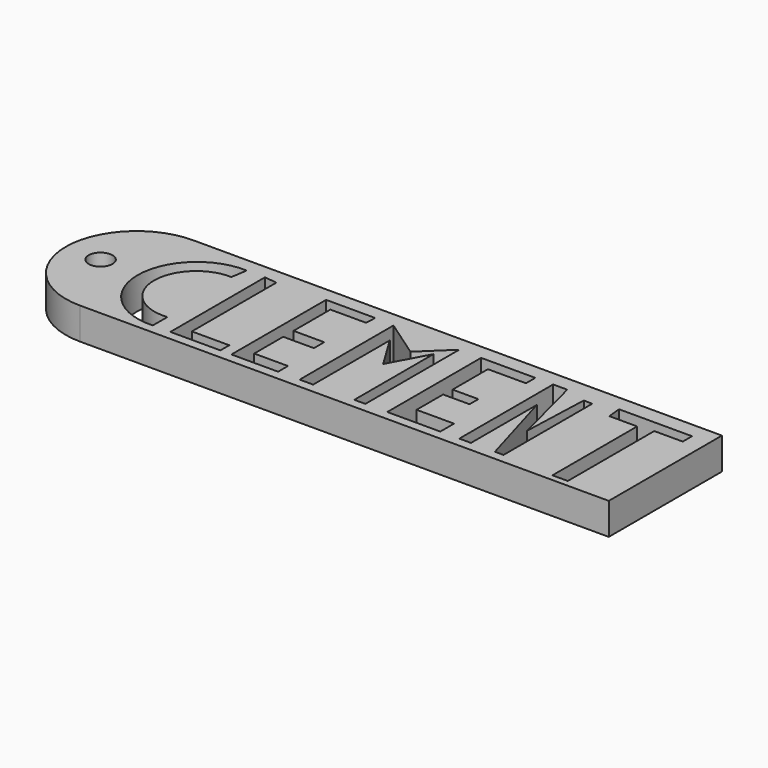
from build123d import *

# Parameters (mm, degrees)
F0_R     = 1.127367
F1_DEPTH = 3


with BuildPart() as f1:
    # F0 (on Top) → F1 (new body)
    with BuildSketch(Plane.XY):
        Polygon((35.822709, 6.686571), (14.177291, 6.686571), (-14.177291, 6.686571), (-14.177291, -6.686571), (14.177291, -6.686571), (35.822709, -6.686571), align=None)
        with BuildLine():
            ThreePointArc((-7.987168, -5.811147), (-13.890392, -0.254472), (-8.056216, 5.374655))
            Line((-8.056216, 5.374655), (-8.291011, 3.855596))
            ThreePointArc((-8.291011, 3.855596), (-12.407662, -0.278009), (-7.987168, -4.084943))
            Line((-7.987168, -4.084943), (-7.987168, -5.811147))
        make_face(mode=Mode.SUBTRACT)
        Polygon((-6.330013, -5.811147), (-6.330013, 5.374655), (-5.141345, 5.225612), (-5.141345, -4.761113), (-1.599541, -4.761113), (-1.599541, -5.811147), align=None, mode=Mode.SUBTRACT)
        Polygon((-0.554419, -5.811147), (-0.554419, 5.374655), (4.090569, 5.374655), (4.032507, 4.354677), (0.66489, 4.354677), (0.66489, 0), (3.568008, 0), (3.568008, -1.219309), (0.66489, -1.219309), (0.66489, -4.644988), (3.85832, -4.644988), (3.85832, -5.811147), align=None, mode=Mode.SUBTRACT)
        Polygon((5.890502, -5.806235), (5.890502, 5.283674), (9.490368, 2.786993), (12.103175, 5.283674), (12.103175, -5.806235), (11.058051, -5.806235), (11.058051, 3.541804), (9.141993, 0), (7.167873, 3.251492), (7.167873, -5.806235), align=None, mode=Mode.SUBTRACT)
        Polygon((14.177291, -5.806235), (14.177291, 5.283674), (19.302906, 5.283674), (19.302906, 4.180489), (15.70304, 4.180489), (15.70304, 0), (18.141657, 0), (18.141657, -1.045122), (15.644977, -1.045122), (15.644977, -4.180489), (19.18678, -4.180489), (19.18678, -5.806235), align=None, mode=Mode.SUBTRACT)
        Polygon((22.089898, -5.806235), (20.986714, -5.806235), (20.986714, 5.283674), (22.322147, 5.283674), (24.113972, -1.700784), (24.354329, 4.703051), (25.167204, 4.672541), (25.167204, -5.806235), (24.354329, -5.806235), (22.089898, 1.97412), align=None, mode=Mode.SUBTRACT)
        Polygon((27.398835, 3.918493), (27.260737, 5.225612), (34.165552, 5.225612), (34.165552, 4.125637), (31.472677, 4.125637), (31.472677, -6.093491), (30.022664, -6.093491), (30.022664, 3.918493), align=None, mode=Mode.SUBTRACT)
        with BuildLine():
            Line((-14.177291, -6.686571), (-14.177291, 6.686571))
            ThreePointArc((-14.177291, 6.686571), (-20.863862, 0), (-14.177291, -6.686571))
        make_face()
        with Locations((-17.574482, 0)):
            Circle(F0_R, mode=Mode.SUBTRACT)
    extrude(amount=F1_DEPTH)


solid = f1.part
